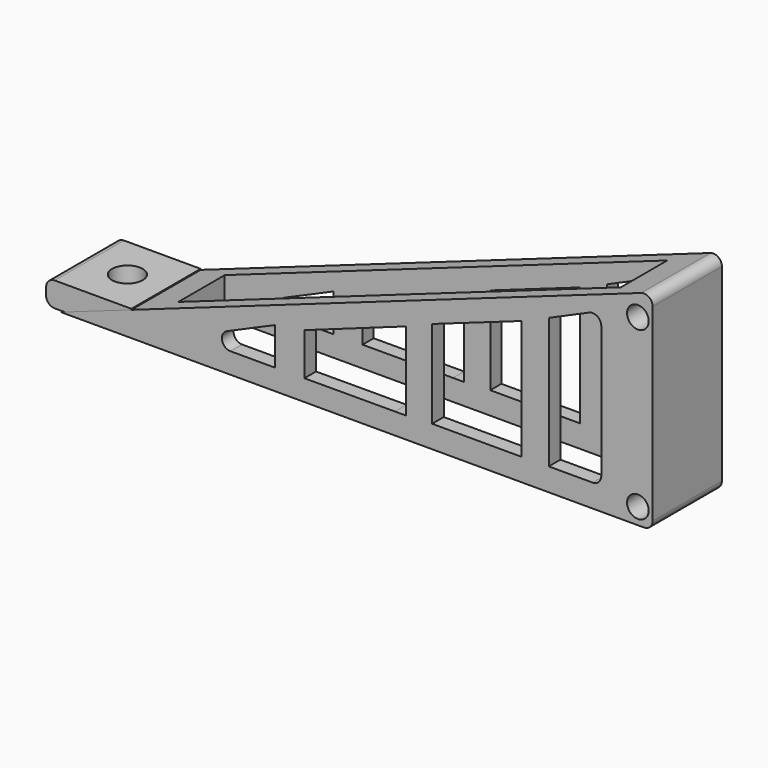
from build123d import *

# Parameters (mm, degrees)
F1_DEPTH  = 6.35
F2_W      = 69.893825
F2_H      = 16.123052
F3_DEPTH  = 127
F5_DEPTH  = 6.35
F6_R      = 2.247621
F7_DEPTH  = 127
F8_DEPTH  = 6.35
F9_W      = 64.918967
F9_H      = 8.522147
F10_DEPTH = 127
F12_DEPTH = 127
F13_R     = 1.587517
F14_DEPTH = 25.4


with BuildPart() as f1:
    # F0 (on Front) → F1 (new body, symmetric)
    with BuildSketch(Plane.XZ):
        with BuildLine():
            Line((45.39823, 4.221463), (-39.687499, -25.929166))
            Line((-39.687499, -25.929166), (45.822417, -25.929166))
            ThreePointArc((45.822417, -25.929166), (46.720443, -25.557192), (47.092417, -24.659166))
            Line((47.092417, -24.659166), (47.092417, 3.024398))
            ThreePointArc((47.092417, 3.024398), (46.555282, 4.06161), (45.39823, 4.221463))
        make_face()
    extrude(amount=F1_DEPTH, both=True)

    # F2 (on face) → F3 (cut, symmetric)
    with BuildSketch(Plane(origin=(0, 0, -25.929166), x_dir=(1, 0, 0), z_dir=(0, 0, -1))):
        with Locations((7.705728, -0.124026)):
            Rectangle(F2_W, F2_H)
    extrude(amount=F3_DEPTH, both=True, mode=Mode.SUBTRACT)

    # F4 (on Front) → F5 (join, symmetric)
    with BuildSketch(Plane.XZ):
        with BuildLine():
            Line((-40.614877, -25.743729), (-29.372381, -25.743729))
            Line((-29.372381, -25.743729), (-29.372381, -22.135654))
            Line((-29.372381, -22.135654), (-40.614877, -22.135654))
            ThreePointArc((-40.614877, -22.135654), (-41.512902, -22.507629), (-41.884877, -23.405654))
            Line((-41.884877, -23.405654), (-41.884877, -24.473729))
            ThreePointArc((-41.884877, -24.473729), (-41.512902, -25.371754), (-40.614877, -25.743729))
        make_face()
    extrude(amount=F5_DEPTH, both=True)

    # F6 (on face) → F7 (cut, symmetric)
    with BuildSketch(Plane.XY.offset(-22.135654)):
        with Locations((-35.038486, 0)):
            Circle(F6_R)
    extrude(amount=F7_DEPTH, both=True, mode=Mode.SUBTRACT)


with BuildPart() as f8:
    # F0 (on Front) → F8 (new body, symmetric)
    with BuildSketch(Plane.XZ):
        with BuildLine():
            Line((45.39823, 4.221463), (-39.687499, -25.929166))
            Line((-39.687499, -25.929166), (45.822417, -25.929166))
            ThreePointArc((45.822417, -25.929166), (46.720443, -25.557192), (47.092417, -24.659166))
            Line((47.092417, -24.659166), (47.092417, 3.024398))
            ThreePointArc((47.092417, 3.024398), (46.555282, 4.06161), (45.39823, 4.221463))
        make_face()
    extrude(amount=F8_DEPTH, both=True)

    # F9 (on face) → F10 (cut, symmetric)
    with BuildSketch(Plane(origin=(0, 0, -25.929166), x_dir=(1, 0, 0), z_dir=(0, 0, -1))):
        with Locations((8.252915, -0.050055)):
            Rectangle(F9_W, F9_H)
    extrude(amount=F10_DEPTH, both=True, mode=Mode.SUBTRACT)

    # F11 (on face) → F12 (cut, symmetric)
    with BuildSketch(Plane(origin=(0, 6.35, 0), x_dir=(-1, 0, 0), z_dir=(0, 1, 0))):
        with BuildLine():
            Line((-39.555151, -1.948701), (-39.555151, -21.310246))
            ThreePointArc((-39.555151, -21.310246), (-39.183177, -22.208271), (-38.285151, -22.580246))
            Line((-38.285151, -22.580246), (-31.853887, -22.580246))
            Line((-31.853887, -22.580246), (-31.853887, -3.398931))
            Line((-31.853887, -3.398931), (-37.772362, -0.786829))
            ThreePointArc((-37.772362, -0.786829), (-38.978569, -0.884713), (-39.555151, -1.948701))
        make_face()
        Polygon((-27.880348, -5.095216), (-27.880348, -22.640249), (-14.741216, -22.640249), (-14.741216, -9.751145), align=None)
        Polygon((-10.91465, -11.312036), (-10.91465, -22.827342), (-9.275836, -22.827342), (3.996369, -22.852853), (3.996369, -16.642382), align=None)
        with BuildLine():
            Line((8.274352, -17.371807), (8.274352, -22.891384))
            Line((8.274352, -22.891384), (14.829625, -22.891384))
            ThreePointArc((14.829625, -22.891384), (16.072791, -21.881074), (15.338032, -20.457587))
            Line((15.338032, -20.457587), (8.274352, -17.371807))
        make_face()
    extrude(amount=F12_DEPTH, both=True, mode=Mode.SUBTRACT)


with BuildPart() as f14_tool:
    # F13 (on face) → F14 (new body)
    with BuildSketch(Plane.XZ.offset(6.35)):
        with Locations((44.92614, 0.934323)):
            Circle(F13_R)
        with Locations((44.92614, -23.532137)):
            Circle(F13_R)
    extrude(amount=-F14_DEPTH)


with BuildPart() as f1_1:
    add(f1.part)

    # F14: cut by f14_tool
    add(f14_tool.part, mode=Mode.SUBTRACT)


with BuildPart() as f8_1:
    add(f8.part)

    # F14: cut by f14_tool
    add(f14_tool.part, mode=Mode.SUBTRACT)


solid = Compound([f1_1.part, f8_1.part])
